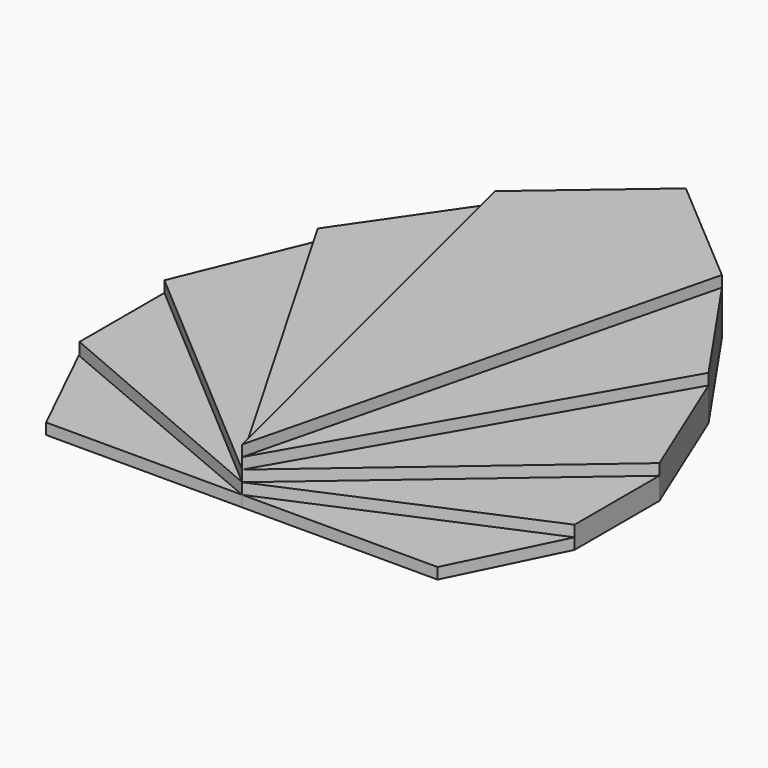
from build123d import *

# Parameters (mm, degrees)
F2_DEPTH  = 1
F4_DEPTH  = 2
F6_DEPTH  = 3
F8_DEPTH  = 4
F9_DEPTH  = 5
F10_DEPTH = 5
F11_DEPTH = 4
F12_DEPTH = 3
F13_DEPTH = 2
F14_DEPTH = 1


with BuildPart() as f2:
    # F1 (on Top) → F2 (new body)
    with BuildSketch(Plane.XY):
        Polygon((-17.681066, 0), (0, 0), (-22.260336, 9.412942), align=None)
    extrude(amount=F2_DEPTH)



with BuildPart() as f4:
    # F0 (on Top) → F4 (new body)
    with BuildSketch(Plane.XY):
        Polygon((-22.315434, 9.563758), (0, 0), (-22.315434, 19.127516), align=None)
    extrude(amount=F4_DEPTH)


with BuildPart() as f2_1:
    add(f2.part)

    add(f4.part)  # F6 merges F4
    # F0 (on Top) → F6 (join)
    with BuildSketch(Plane.XY):
        Polygon((-22.315434, 19.127516), (0, 0), (-17.617453, 30.536912), align=None)
    extrude(amount=F6_DEPTH)

    # F7 (on face) → F8 (join)
    with BuildSketch(Plane.XY):
        Polygon((-10.234896, 41.275169), (-17.617453, 30.536912), (0, 0), align=None)
    extrude(amount=F8_DEPTH)

    # F0 (on Top) → F9 (join)
    with BuildSketch(Plane.XY):
        Polygon((-10.234896, 41.275169), (0, 0), (0, 50), align=None)
    extrude(amount=F9_DEPTH)

    # F0 (on Top) → F10 (join)
    with BuildSketch(Plane.XY):
        Polygon((0, 50), (0, 0), (10.234896, 41.275169), align=None)
    extrude(amount=F10_DEPTH)

    # F0 (on Top) → F11 (join)
    with BuildSketch(Plane.XY):
        Polygon((10.234896, 41.275169), (0, 0), (17.617453, 30.536912), align=None)
    extrude(amount=F11_DEPTH)

    # F0 (on Top) → F12 (join)
    with BuildSketch(Plane.XY):
        Polygon((17.617453, 30.536912), (0, 0), (22.315434, 19.127516), align=None)
    extrude(amount=F12_DEPTH)

    # F0 (on Top) → F13 (join)
    with BuildSketch(Plane.XY):
        Polygon((22.315434, 19.127516), (0, 0), (22.315434, 9.563758), align=None)
    extrude(amount=F13_DEPTH)

    # F0 (on Top) → F14 (join)
    with BuildSketch(Plane.XY):
        Polygon((22.315434, 9.563758), (0, 0), (17.617453, 0), align=None)
    extrude(amount=F14_DEPTH)


solid = f2_1.part
